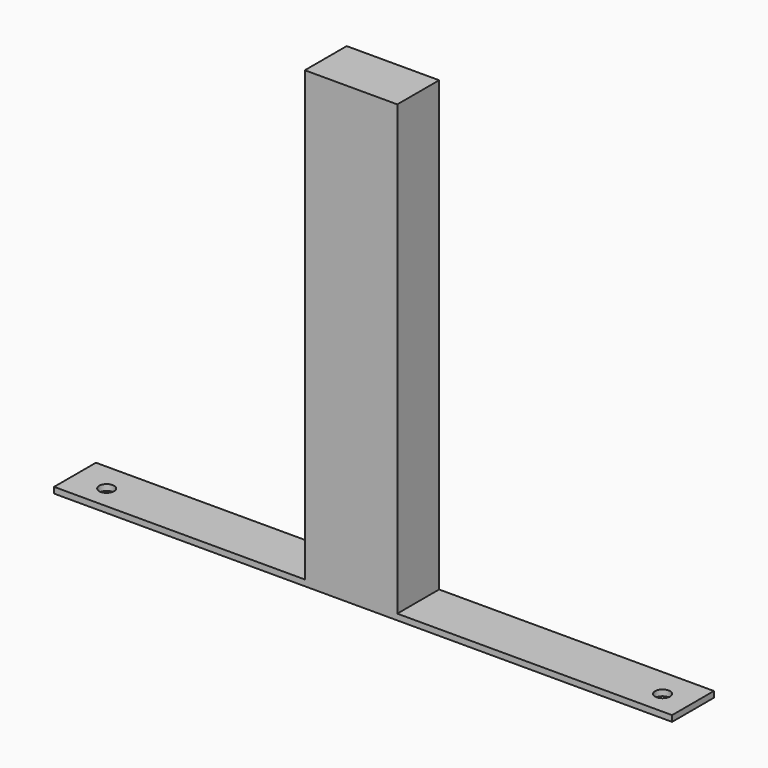
from build123d import *

# Parameters (mm, degrees)
F0_W     = 82.709495
F0_H     = 7
F0_R     = 1
F1_DEPTH = 0.8
F2_W     = 12.371881
F2_H     = 7
F3_DEPTH = 60


with BuildPart() as f1:
    # F0 (on Top) → F1 (new body)
    with BuildSketch(Plane.XY):
        with Locations((1.508386, 0.357548)):
            Rectangle(F0_W, F0_H)
        with Locations((-35.321221, 0)):
            Circle(F0_R, mode=Mode.SUBTRACT)
        with Locations((39.078779, 0)):
            Circle(F0_R, mode=Mode.SUBTRACT)
    extrude(amount=F1_DEPTH)

    # F2 (on face) → F3 (join)
    with BuildSketch(Plane.XY.offset(0.8)):
        with Locations((-0.099949, 0.357548)):
            Rectangle(F2_W, F2_H)
    extrude(amount=F3_DEPTH)


solid = f1.part
